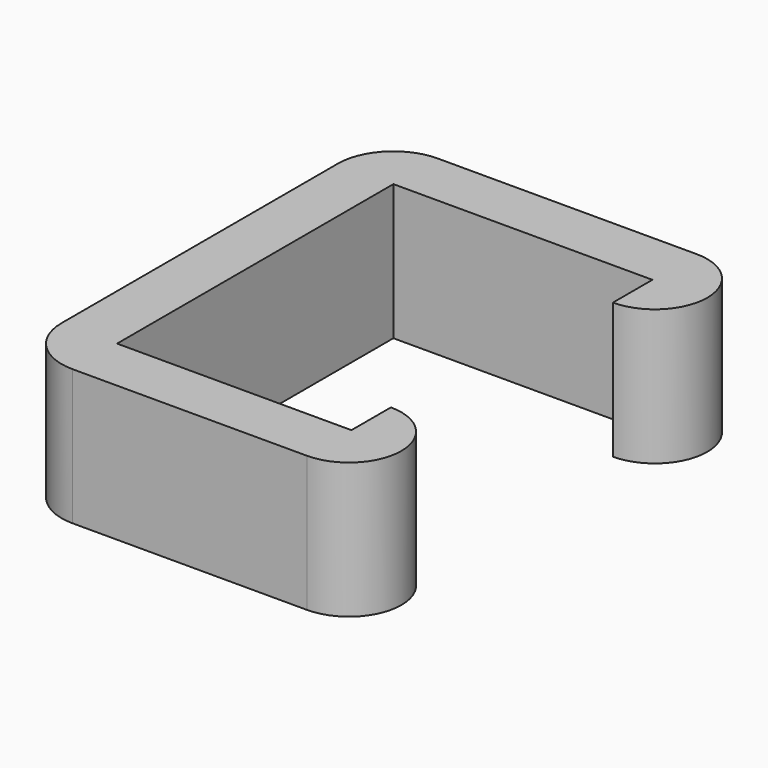
from build123d import *

# Parameters (mm, degrees)
F1_DEPTH = 11


with BuildPart() as f1:
    # F0 (on Top) → F1 (new body)
    with BuildSketch(Plane.XY):
        with BuildLine():
            Line((19, 0), (0, 0))
            Line((0, 0), (0, 28))
            Line((0, 28), (21, 28))
            Line((21, 28), (21, 24))
            ThreePointArc((21, 24), (25.25, 28.25), (21, 32.5))
            Line((21, 32.5), (0, 32.5))
            ThreePointArc((0, 32.5), (-3.181981, 31.181981), (-4.5, 28))
            Line((-4.5, 28), (-4.5, 0))
            ThreePointArc((-4.5, 0), (-3.181981, -3.181981), (0, -4.5))
            Line((0, -4.5), (19, -4.5))
            ThreePointArc((19, -4.5), (23.25, -0.25), (19, 4))
            Line((19, 4), (19, 0))
        make_face()
    extrude(amount=F1_DEPTH)


solid = f1.part
